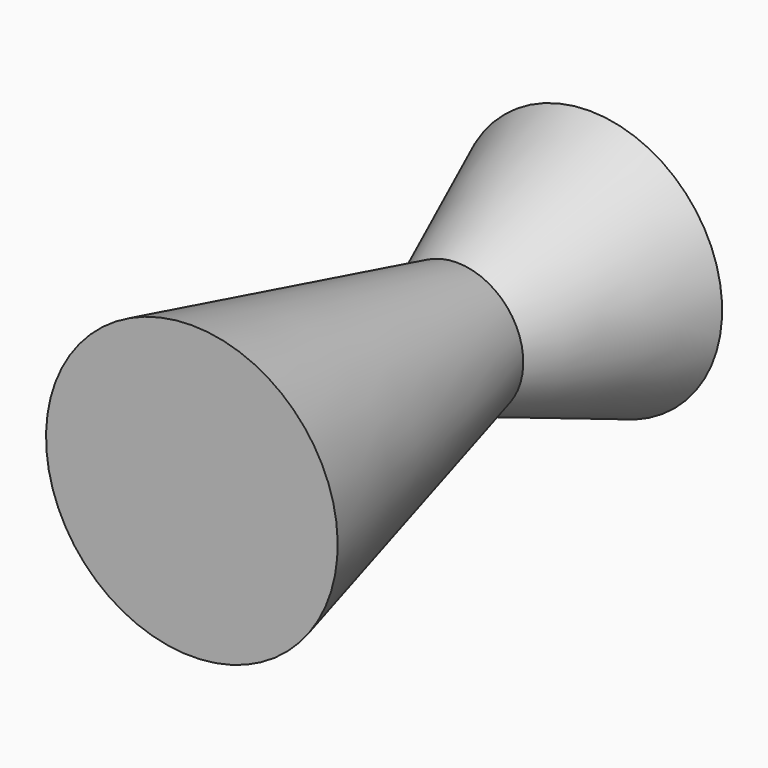
from build123d import *


with BuildPart() as f1:
    # F0 (on Right) → F1 (revolve)
    with BuildSketch(Plane.YZ):
        Polygon((25, 0), (25, 20), (0, 10), (0, 0), align=None)
        Polygon((0, 0), (0, 10), (-50, 22), (-50, 0), align=None)
    revolve(axis=Axis((0, -25, 0), (0, 1, 0)))


solid = f1.part
